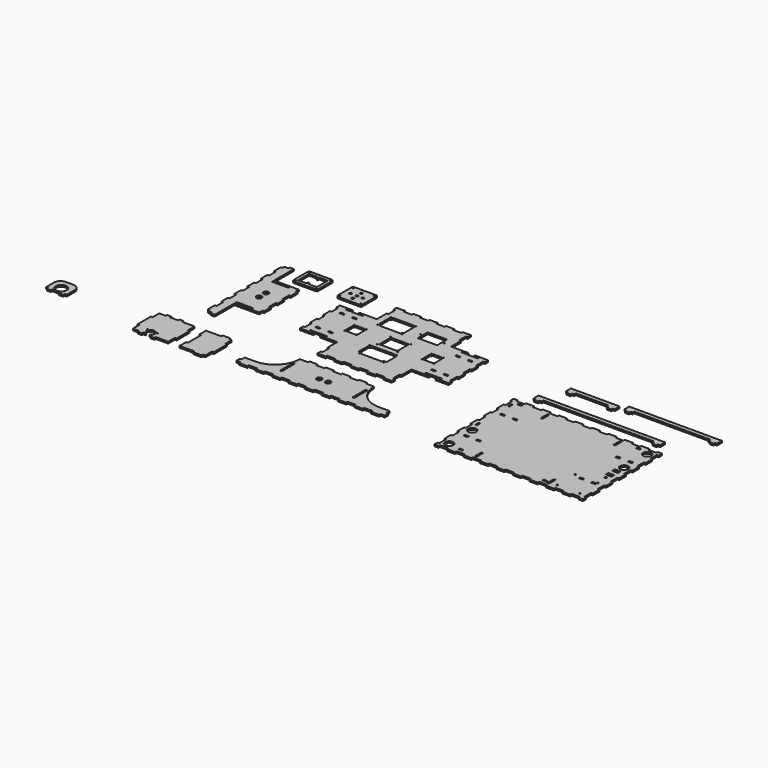
from build123d import *

# Parameters (mm, degrees)
F1_R      = 1.5875
F1_W      = 12.7
F1_H      = 4.953
F1_R_2    = 1.4605
F1_R_3    = 1.59
F1_R_4    = 1.5605030282
F1_W_2    = 55.7491275787
F1_H_2    = 44.6608998299
F1_W_3    = 59.69
F1_H_3    = 38.1
F2_DEPTH  = 5.334
F3_W      = 5.334
F3_H      = 50.8
F3_R      = 8
F4_DEPTH  = 5.334
F5_W      = 50.8
F5_H      = 5.08
F5_R      = 8
F6_DEPTH  = 5.334
F7_R      = 1.7
F8_DEPTH  = 5.334
F7_R_2    = 17
F9_R      = 12.7
F9_W      = 5.334
F9_H      = 25.4
F9_W_2    = 12.7
F9_H_2    = 5.334
F9_W_3    = 4.953
F9_H_3    = 12.7
F9_R_2    = 2.159
F9_R_3    = 3.175
F9_W_4    = 17.78
F9_H_4    = 10.16
F9_H_5    = 4.953
F10_DEPTH = 5.334
F12_DEPTH = 5.334
F13_R     = 1.59
F13_R_2   = 3.75
F14_DEPTH = 5.334


with BuildPart() as f2:
    # F1 (on Top) → F2 (new body)
    with BuildSketch(Plane.XY):
        Polygon((139.7, 304.8), (114.3, 304.8), (114.3, 292.1), (119.634, 292.1), (119.634, 266.7), (114.3, 266.7), (114.3, 228.6), (61, 228.6), (61, 220.3220129013), (40.6, 220.3220129013), (40.6, 228.6), (0, 228.6), (0, 215.9), (5.334, 215.9), (5.334, 190.5), (0, 190.5), (0, 165.1), (5.334, 165.1), (5.334, 139.7), (0, 139.7), (0, 114.3), (5.334, 114.3), (5.334, 88.9), (0, 88.9), (0, 76.2), (40.6, 76.2), (40.6, 84.4779870987), (61, 84.4779870987), (61, 76.2), (114.3, 76.2), (114.3, 38.1), (119.634, 38.1), (119.634, 12.7), (114.3, 12.7), (114.3, 0), (139.7, 0), (139.7, 5.334), (165.1, 5.334), (165.1, 0), (190.5, 0), (190.5, 5.334), (215.9, 5.334), (215.9, 0), (241.3, 0), (241.3, 5.334), (266.7, 5.334), (266.7, 0), (292.1, 0), (292.1, 5.334), (317.5, 5.334), (317.5, 0), (342.9, 0), (342.9, 5.334), (342.9, 12.7), (337.566, 12.7), (337.566, 38.1), (342.9, 38.1), (342.9, 76.2), (396.2, 76.2), (396.2, 84.4779870987), (416.6, 84.4779870987), (416.6, 76.2), (457.2, 76.2), (457.2, 88.9), (451.866, 88.9), (451.866, 114.3), (457.2, 114.3), (457.2, 139.7), (451.866, 139.7), (451.866, 165.1), (457.2, 165.1), (457.2, 190.5), (451.866, 190.5), (451.866, 215.9), (457.2, 215.9), (457.2, 228.6), (416.6, 228.6), (416.6, 220.3220129013), (396.2, 220.3220129013), (396.2, 228.6), (342.9, 228.6), (342.9, 266.7), (337.566, 266.7), (337.566, 292.1), (342.9, 292.1), (342.9, 304.8), (317.5, 304.8), (317.5, 299.466), (292.1, 299.466), (292.1, 304.8), (266.7, 304.8), (266.7, 299.466), (241.3, 299.466), (241.3, 304.8), (215.9, 304.8), (215.9, 299.466), (190.5, 299.466), (190.5, 304.8), (165.1, 304.8), (165.1, 299.466), (139.7, 299.466), align=None)
        with Locations((192.1576304197, 64.14)):
            Circle(F1_R, mode=Mode.SUBTRACT)
        with Locations((31.75, 81.8515)):
            Rectangle(F1_W, F1_H, mode=Mode.SUBTRACT)
        with Locations((31.75, 105.8045)):
            Rectangle(F1_W, F1_H, mode=Mode.SUBTRACT)
        with Locations((69.85, 81.8515)):
            Rectangle(F1_W, F1_H, mode=Mode.SUBTRACT)
        with Locations((69.85, 105.8045)):
            Rectangle(F1_W, F1_H, mode=Mode.SUBTRACT)
        with Locations((91.2, 133.9)):
            Circle(F1_R_2, mode=Mode.SUBTRACT)
        with Locations((185.8076304197, 112.4)):
            Circle(F1_R, mode=Mode.SUBTRACT)
        with Locations((128.2, 133.9)):
            Circle(F1_R_2, mode=Mode.SUBTRACT)
        with Locations((196.85, 127)):
            Circle(F1_R_3, mode=Mode.SUBTRACT)
        with Locations((267.0876304197, 64.14)):
            Circle(F1_R, mode=Mode.SUBTRACT)
        with BuildLine():
            ThreePointArc((185.8076304197, 107.4), (189.3431643257, 108.8644660941), (190.8076304197, 112.4))
            Line((190.8076304197, 112.4), (263.3576304197, 112.4))
            ThreePointArc((263.3576304197, 112.4), (264.8220965138, 108.8644660941), (268.3576304197, 107.4))
            Line((268.3576304197, 107.4), (272.1998989582, 107.4))
            Line((272.1998989582, 107.4), (272.1998989582, 69.14))
            Line((272.1998989582, 69.14), (267.0876304197, 69.14))
            ThreePointArc((267.0876304197, 69.14), (263.5520965138, 67.6755339059), (262.0876304197, 64.14))
            Line((262.0876304197, 64.14), (197.1576304197, 64.14))
            ThreePointArc((197.1576304197, 64.14), (195.6931643257, 67.6755339059), (192.1576304197, 69.14))
            Line((192.1576304197, 69.14), (185.8076304197, 69.14))
            Line((185.8076304197, 69.14), (185.8076304197, 107.4))
        make_face(mode=Mode.SUBTRACT)
        with Locations((268.3576304197, 112.4)):
            Circle(F1_R, mode=Mode.SUBTRACT)
        with Locations((260.35, 127)):
            Circle(F1_R_3, mode=Mode.SUBTRACT)
        with Locations((329, 133.9)):
            Circle(F1_R_2, mode=Mode.SUBTRACT)
        with Locations((387.35, 81.8515)):
            Rectangle(F1_W, F1_H, mode=Mode.SUBTRACT)
        with Locations((387.35, 105.8045)):
            Rectangle(F1_W, F1_H, mode=Mode.SUBTRACT)
        with Locations((425.45, 81.8515)):
            Rectangle(F1_W, F1_H, mode=Mode.SUBTRACT)
        with Locations((425.45, 105.8045)):
            Rectangle(F1_W, F1_H, mode=Mode.SUBTRACT)
        with Locations((366, 133.9)):
            Circle(F1_R_2, mode=Mode.SUBTRACT)
        with BuildLine():
            Line((91.2, 137.8605021034), (91.2, 166.9395006203))
            ThreePointArc((91.2, 166.9395006203), (94.0004959683, 168.0995040317), (95.1604993797, 170.9))
            Line((95.1604993797, 170.9), (124.1394969718, 170.9))
            ThreePointArc((124.1394969718, 170.9), (125.3287907737, 168.0287907737), (128.2, 166.8394969718))
            Line((128.2, 166.8394969718), (128.2, 137.8605067951))
            ThreePointArc((128.2, 137.8605067951), (125.3994987883, 136.7005012117), (124.2394932049, 133.9))
            Line((124.2394932049, 133.9), (95.1605021034, 133.9))
            ThreePointArc((95.1605021034, 133.9), (94.0004978942, 136.7004978942), (91.2, 137.8605021034))
        make_face(mode=Mode.SUBTRACT)
        with Locations((91.2, 170.9)):
            Circle(F1_R_2, mode=Mode.SUBTRACT)
        with Locations((31.75, 198.9955)):
            Rectangle(F1_W, F1_H, mode=Mode.SUBTRACT)
        with Locations((31.75, 222.9485)):
            Rectangle(F1_W, F1_H, mode=Mode.SUBTRACT)
        with Locations((69.85, 198.9955)):
            Rectangle(F1_W, F1_H, mode=Mode.SUBTRACT)
        with Locations((69.85, 222.9485)):
            Rectangle(F1_W, F1_H, mode=Mode.SUBTRACT)
        with Locations((128.2, 170.9)):
            Circle(F1_R_4, mode=Mode.SUBTRACT)
        with Locations((196.85, 177.8)):
            Circle(F1_R_3, mode=Mode.SUBTRACT)
        with Locations((134.4612389803, 206.2033116817)):
            Circle(F1_R_3, mode=Mode.SUBTRACT)
        with Locations((210.4612389803, 206.2033116817)):
            Circle(F1_R_3, mode=Mode.SUBTRACT)
        with Locations((134.4612389803, 258.2033116817)):
            Circle(F1_R_3, mode=Mode.SUBTRACT)
        with BuildLine():
            Line((134.4612389803, 211.2033116817), (134.4612389803, 253.2033116817))
            ThreePointArc((134.4612389803, 253.2033116817), (137.9967728862, 254.6677777758), (139.4612389803, 258.2033116817))
            Line((139.4612389803, 258.2033116817), (205.4612389803, 258.2033116817))
            ThreePointArc((205.4612389803, 258.2033116817), (206.9257050744, 254.6677777758), (210.4612389803, 253.2033116817))
            Line((210.4612389803, 253.2033116817), (210.4612389803, 211.2033116817))
            ThreePointArc((210.4612389803, 211.2033116817), (206.9257050744, 209.7388455877), (205.4612389803, 206.2033116817))
            Line((205.4612389803, 206.2033116817), (139.4612389803, 206.2033116817))
            ThreePointArc((139.4612389803, 206.2033116817), (137.9967728862, 209.7388455877), (134.4612389803, 211.2033116817))
        make_face(mode=Mode.SUBTRACT)
        with Locations((210.4612389803, 258.2033116817)):
            Circle(F1_R_3, mode=Mode.SUBTRACT)
        with Locations((228.6, 152.4)):
            Rectangle(F1_W_2, F1_H_2, mode=Mode.SUBTRACT)
        with Locations((260.35, 177.8)):
            Circle(F1_R_3, mode=Mode.SUBTRACT)
        with Locations((329, 170.9)):
            Circle(F1_R_4, mode=Mode.SUBTRACT)
        with BuildLine():
            ThreePointArc((332.9605067951, 133.9), (331.8005012117, 136.7005012117), (329, 137.8605067951))
            Line((329, 137.8605067951), (329, 166.8394969718))
            ThreePointArc((329, 166.8394969718), (331.8712092263, 168.0287907737), (333.0605030282, 170.9))
            Line((333.0605030282, 170.9), (362.0395006203, 170.9))
            ThreePointArc((362.0395006203, 170.9), (363.1995040317, 168.0995040317), (366, 166.9395006203))
            Line((366, 166.9395006203), (366, 137.8605021034))
            ThreePointArc((366, 137.8605021034), (363.1995021058, 136.7004978942), (362.0394978966, 133.9))
            Line((362.0394978966, 133.9), (332.9605067951, 133.9))
        make_face(mode=Mode.SUBTRACT)
        with Locations((366, 170.9)):
            Circle(F1_R_2, mode=Mode.SUBTRACT)
        with Locations((387.35, 198.9955)):
            Rectangle(F1_W, F1_H, mode=Mode.SUBTRACT)
        with Locations((387.35, 222.9485)):
            Rectangle(F1_W, F1_H, mode=Mode.SUBTRACT)
        with Locations((425.45, 198.9955)):
            Rectangle(F1_W, F1_H, mode=Mode.SUBTRACT)
        with Locations((425.45, 222.9485)):
            Rectangle(F1_W, F1_H, mode=Mode.SUBTRACT)
        with Locations((246.4602110287, 232.2033116817)):
            Circle(F1_R_3, mode=Mode.SUBTRACT)
        with Locations((282.6552110287, 232.2033116817)):
            Rectangle(F1_W_3, F1_H_3, mode=Mode.SUBTRACT)
        with Locations((318.8502110287, 232.2033116817)):
            Circle(F1_R_3, mode=Mode.SUBTRACT)
    extrude(amount=F2_DEPTH)


with BuildPart() as f4:
    # F3 (on Top) → F4 (new body)
    with BuildSketch(Plane.XY):
        with BuildLine():
            Line((430.1446376383, -151.3329756618), (442.8446376383, -151.3329756618))
            Line((442.8446376383, -151.3329756618), (442.8446376383, -138.6329756618))
            Line((442.8446376383, -138.6329756618), (437.5106376383, -138.6329756618))
            Line((437.5106376383, -138.6329756618), (437.5106376383, -125.9329756618))
            Line((437.5106376383, -125.9329756618), (404.7446376383, -125.9329756618))
            ThreePointArc((404.7446376383, -125.9329756618), (350.8631009119, -103.6145123882), (328.5446376383, -49.7329756618))
            Line((328.5446376383, -49.7329756618), (303.1446376383, -49.7329756618))
            Line((303.1446376383, -49.7329756618), (303.1446376383, -44.3989756618))
            Line((303.1446376383, -44.3989756618), (277.7446376383, -44.3989756618))
            Line((277.7446376383, -44.3989756618), (277.7446376383, -49.7329756618))
            Line((277.7446376383, -49.7329756618), (252.3446376383, -49.7329756618))
            Line((252.3446376383, -49.7329756618), (252.3446376383, -44.3989756618))
            Line((252.3446376383, -44.3989756618), (226.9446376383, -44.3989756618))
            Line((226.9446376383, -44.3989756618), (226.9446376383, -49.7329756618))
            Line((226.9446376383, -49.7329756618), (201.5446376383, -49.7329756618))
            Line((201.5446376383, -49.7329756618), (201.5446376383, -44.3989756618))
            Line((201.5446376383, -44.3989756618), (176.1446376383, -44.3989756618))
            Line((176.1446376383, -44.3989756618), (176.1446376383, -49.7329756618))
            Line((176.1446376383, -49.7329756618), (150.7446376383, -49.7329756618))
            Line((150.7446376383, -49.7329756618), (150.7446376383, -44.3989756618))
            Line((150.7446376383, -44.3989756618), (125.3446376383, -44.3989756618))
            Line((125.3446376383, -44.3989756618), (125.3446376383, -49.7329756618))
            Line((125.3446376383, -49.7329756618), (99.9446376383, -49.7329756618))
            ThreePointArc((99.9446376383, -49.7329756618), (77.6261743647, -103.6145123882), (23.7446376383, -125.9329756618))
            Line((23.7446376383, -125.9329756618), (-9.0213623617, -125.9329756618))
            Line((-9.0213623617, -125.9329756618), (-9.0213623617, -138.6329756618))
            Line((-9.0213623617, -138.6329756618), (-14.3553623617, -138.6329756618))
            Line((-14.3553623617, -138.6329756618), (-14.3553623617, -151.3329756618))
            Line((-14.3553623617, -151.3329756618), (-1.6553623617, -151.3329756618))
            Line((-1.6553623617, -151.3329756618), (-1.6553623617, -156.6669756618))
            Line((-1.6553623617, -156.6669756618), (23.7446376383, -156.6669756618))
            Line((23.7446376383, -156.6669756618), (23.7446376383, -151.3329756618))
            Line((23.7446376383, -151.3329756618), (49.1446376383, -151.3329756618))
            Line((49.1446376383, -151.3329756618), (49.1446376383, -156.6669756618))
            Line((49.1446376383, -156.6669756618), (74.5446376383, -156.6669756618))
            Line((74.5446376383, -156.6669756618), (74.5446376383, -151.3329756618))
            Line((74.5446376383, -151.3329756618), (99.9446376383, -151.3329756618))
            Line((99.9446376383, -151.3329756618), (99.9446376383, -156.6669756618))
            Line((99.9446376383, -156.6669756618), (125.3446376383, -156.6669756618))
            Line((125.3446376383, -156.6669756618), (125.3446376383, -151.3329756618))
            Line((125.3446376383, -151.3329756618), (150.7446376383, -151.3329756618))
            Line((150.7446376383, -151.3329756618), (150.7446376383, -156.6669756618))
            Line((150.7446376383, -156.6669756618), (176.1446376383, -156.6669756618))
            Line((176.1446376383, -156.6669756618), (176.1446376383, -151.3329756618))
            Line((176.1446376383, -151.3329756618), (201.5446376383, -151.3329756618))
            Line((201.5446376383, -151.3329756618), (201.5446376383, -156.6669756618))
            Line((201.5446376383, -156.6669756618), (226.9446376383, -156.6669756618))
            Line((226.9446376383, -156.6669756618), (226.9446376383, -151.3329756618))
            Line((226.9446376383, -151.3329756618), (252.3446376383, -151.3329756618))
            Line((252.3446376383, -151.3329756618), (252.3446376383, -156.6669756618))
            Line((252.3446376383, -156.6669756618), (277.7446376383, -156.6669756618))
            Line((277.7446376383, -156.6669756618), (277.7446376383, -151.3329756618))
            Line((277.7446376383, -151.3329756618), (303.1446376383, -151.3329756618))
            Line((303.1446376383, -151.3329756618), (303.1446376383, -156.6669756618))
            Line((303.1446376383, -156.6669756618), (328.5446376383, -156.6669756618))
            Line((328.5446376383, -156.6669756618), (328.5446376383, -151.3329756618))
            Line((328.5446376383, -151.3329756618), (353.9446376383, -151.3329756618))
            Line((353.9446376383, -151.3329756618), (353.9446376383, -156.6669756618))
            Line((353.9446376383, -156.6669756618), (379.3446376383, -156.6669756618))
            Line((379.3446376383, -156.6669756618), (379.3446376383, -151.3329756618))
            Line((379.3446376383, -151.3329756618), (404.7446376383, -151.3329756618))
            Line((404.7446376383, -151.3329756618), (404.7446376383, -156.6669756618))
            Line((404.7446376383, -156.6669756618), (430.1446376383, -156.6669756618))
            Line((430.1446376383, -156.6669756618), (430.1446376383, -151.3329756618))
        make_face()
        with Locations((102.6116376383, -100.5329756618)):
            Rectangle(F3_W, F3_H, mode=Mode.SUBTRACT)
        with Locations((325.8776376383, -100.5329756618)):
            Rectangle(F3_W, F3_H, mode=Mode.SUBTRACT)
        with Locations((200.7446376383, -100.5329756618)):
            Circle(F3_R, mode=Mode.SUBTRACT)
        with Locations((227.7446376383, -100.5329756618)):
            Circle(F3_R, mode=Mode.SUBTRACT)
    extrude(amount=F4_DEPTH)


with BuildPart() as f6:
    # F5 (on Top) → F6 (new body)
    with BuildSketch(Plane.XY):
        Polygon((-204.3737312469, 307.7952442482), (-217.0737312469, 307.7952442482), (-217.0737312469, 302.4612442482), (-229.7737312469, 302.4612442482), (-229.7737312469, 295.0952442482), (-235.1077312469, 295.0952442482), (-235.1077312469, 269.6952442482), (-229.7737312469, 269.6952442482), (-229.7737312469, 244.2952442482), (-235.1077312469, 244.2952442482), (-235.1077312469, 218.8952442482), (-229.7737312469, 218.8952442482), (-229.7737312469, 193.4952442482), (-235.1077312469, 193.4952442482), (-235.1077312469, 168.0952442482), (-229.7737312469, 168.0952442482), (-229.7737312469, 142.6952442482), (-235.1077312469, 142.6952442482), (-235.1077312469, 117.2952442482), (-229.7737312469, 117.2952442482), (-229.7737312469, 91.8952442482), (-235.1077312469, 91.8952442482), (-235.1077312469, 66.4952442482), (-229.7737312469, 66.4952442482), (-229.7737312469, 41.0952442482), (-235.1077312469, 41.0952442482), (-235.1077312469, 15.6952442482), (-229.7737312469, 15.6952442482), (-229.7737312469, 8.3292442482), (-217.0737312469, 8.3292442482), (-217.0737312469, 2.9952442482), (-204.3737312469, 2.9952442482), (-204.3737312469, 79.1952442482), (-128.1737312469, 79.1952442482), (-128.1737312469, 91.8952442482), (-122.8397312469, 91.8952442482), (-122.8397312469, 117.2952442482), (-128.1737312469, 117.2952442482), (-128.1737312469, 142.6952442482), (-122.8397312469, 142.6952442482), (-122.8397312469, 168.0952442482), (-128.1737312469, 168.0952442482), (-128.1737312469, 193.4952442482), (-122.8397312469, 193.4952442482), (-122.8397312469, 218.8952442482), (-128.1737312469, 218.8952442482), (-128.1737312469, 231.5952442482), (-204.3737312469, 231.5952442482), align=None)
        with Locations((-178.9737312469, 84.9102442482)):
            Rectangle(F5_W, F5_H, mode=Mode.SUBTRACT)
        with Locations((-178.9737312469, 141.8952442482)):
            Circle(F5_R, mode=Mode.SUBTRACT)
        with Locations((-178.9737312469, 168.8952442482)):
            Circle(F5_R, mode=Mode.SUBTRACT)
        with Locations((-178.9737312469, 225.8802442482)):
            Rectangle(F5_W, F5_H, mode=Mode.SUBTRACT)
    extrude(amount=F6_DEPTH)


with BuildPart() as f8:
    # F7 (on Top) → F8 (new body)
    with BuildSketch(Plane.XY):
        with BuildLine():
            ThreePointArc((-272.8370583595, -176.365018195), (-267.6500678062, -152.492018195), (-262.4630772529, -176.365018195))
            Line((-262.4630772529, -176.365018195), (-261.3000678062, -176.365018195))
            Line((-261.3000678062, -176.365018195), (-254.9500678062, -176.365018195))
            Line((-254.9500678062, -176.365018195), (-254.9500678062, -181.699018195))
            Line((-254.9500678062, -181.699018195), (-242.2500678062, -181.699018195))
            Line((-242.2500678062, -181.699018195), (-242.2500678062, -176.365018195))
            Line((-242.2500678062, -176.365018195), (-222.1840678062, -176.365018195))
            Line((-222.1840678062, -176.365018195), (-209.4840678062, -176.365018195))
            Line((-209.4840678062, -176.365018195), (-204.1500678062, -176.365018195))
            Line((-204.1500678062, -176.365018195), (-204.1500678062, -150.965018195))
            Line((-204.1500678062, -150.965018195), (-198.8160678062, -150.965018195))
            Line((-198.8160678062, -150.965018195), (-198.8160678062, -100.165018195))
            Line((-198.8160678062, -100.165018195), (-204.1500678062, -100.165018195))
            Line((-204.1500678062, -100.165018195), (-204.1500678062, -74.765018195))
            Line((-204.1500678062, -74.765018195), (-209.4840678062, -74.765018195))
            Line((-209.4840678062, -74.765018195), (-242.2500678062, -74.765018195))
            Line((-242.2500678062, -74.765018195), (-242.2500678062, -69.431018195))
            Line((-242.2500678062, -69.431018195), (-254.9500678062, -69.431018195))
            Line((-254.9500678062, -69.431018195), (-254.9500678062, -74.765018195))
            Line((-254.9500678062, -74.765018195), (-261.3000678062, -74.765018195))
            Line((-261.3000678062, -74.765018195), (-274.0000678062, -74.765018195))
            Line((-274.0000678062, -74.765018195), (-280.3500678062, -74.765018195))
            Line((-280.3500678062, -74.765018195), (-280.3500678062, -69.431018195))
            Line((-280.3500678062, -69.431018195), (-293.0500678062, -69.431018195))
            Line((-293.0500678062, -69.431018195), (-293.0500678062, -74.765018195))
            Line((-293.0500678062, -74.765018195), (-313.1160678062, -74.765018195))
            Line((-313.1160678062, -74.765018195), (-313.1160678062, -100.165018195))
            Line((-313.1160678062, -100.165018195), (-318.4500678062, -100.165018195))
            Line((-318.4500678062, -100.165018195), (-318.4500678062, -150.965018195))
            Line((-318.4500678062, -150.965018195), (-313.1160678062, -150.965018195))
            Line((-313.1160678062, -150.965018195), (-313.1160678062, -176.365018195))
            Line((-313.1160678062, -176.365018195), (-293.0500678062, -176.365018195))
            Line((-293.0500678062, -176.365018195), (-293.0500678062, -181.699018195))
            Line((-293.0500678062, -181.699018195), (-280.3500678062, -181.699018195))
            Line((-280.3500678062, -181.699018195), (-280.3500678062, -176.365018195))
            Line((-280.3500678062, -176.365018195), (-274.0000678062, -176.365018195))
            Line((-274.0000678062, -176.365018195), (-272.8370583595, -176.365018195))
        make_face()
        with Locations((-283.1500678062, -157.992018195)):
            Circle(F7_R, mode=Mode.SUBTRACT)
        with Locations((-252.1500678062, -157.992018195)):
            Circle(F7_R, mode=Mode.SUBTRACT)
    extrude(amount=F8_DEPTH)


with BuildPart() as f8b:
    # F7 (on Top) → F8, piece 2 (new body)
    with BuildSketch(Plane.XY):
        Polygon((-122.6160678062, -74.765018195), (-169.2250678062, -74.765018195), (-169.2250678062, -100.2327756405), (-163.8910678062, -100.2327756405), (-163.8910678062, -151.0327756405), (-169.2250678062, -151.0327756405), (-169.2250678062, -176.365018195), (-122.6160678062, -176.365018195), (-122.6160678062, -181.699018195), (-97.2160678062, -181.699018195), (-97.2160678062, -176.365018195), (-89.8500678062, -176.365018195), (-89.8500678062, -151.0327756405), (-84.5160678062, -151.0327756405), (-84.5160678062, -100.2327756405), (-89.8500678062, -100.2327756405), (-89.8500678062, -74.765018195), (-97.2160678062, -74.765018195), (-97.2160678062, -69.431018195), (-122.6160678062, -69.431018195), align=None)
    extrude(amount=F8_DEPTH)


with BuildPart() as f8c:
    # F7 (on Top) → F8, piece 3 (new body)
    with BuildSketch(Plane.XY):
        with BuildLine():
            Line((-591.9987723351, -143.3400139274), (-591.9987723351, -138.0060139274))
            Line((-591.9987723351, -138.0060139274), (-585.6487723351, -138.0060139274))
            Line((-585.6487723351, -138.0060139274), (-572.9487723351, -138.0060139274))
            Line((-572.9487723351, -138.0060139274), (-566.5987723351, -138.0060139274))
            Line((-566.5987723351, -138.0060139274), (-566.5987723351, -143.3400139274))
            Line((-566.5987723351, -143.3400139274), (-553.8987723351, -143.3400139274))
            Line((-553.8987723351, -143.3400139274), (-553.8987723351, -138.0060139274))
            Line((-553.8987723351, -138.0060139274), (-547.5487723351, -138.0060139274))
            Line((-547.5487723351, -138.0060139274), (-547.5487723351, -107.2060139274))
            ThreePointArc((-547.5487723351, -107.2060139274), (-553.4066367113, -93.0638783036), (-567.5487723351, -87.2060139274))
            Line((-567.5487723351, -87.2060139274), (-591.0487723351, -87.2060139274))
            ThreePointArc((-591.0487723351, -87.2060139274), (-605.1909079588, -93.0638783036), (-611.0487723351, -107.2060139274))
            Line((-611.0487723351, -107.2060139274), (-611.0487723351, -138.0060139274))
            Line((-611.0487723351, -138.0060139274), (-604.6987723351, -138.0060139274))
            Line((-604.6987723351, -138.0060139274), (-604.6987723351, -143.3400139274))
            Line((-604.6987723351, -143.3400139274), (-591.9987723351, -143.3400139274))
        make_face()
        with Locations((-579.2987723351, -119.5060139274)):
            Circle(F7_R_2, mode=Mode.SUBTRACT)
    extrude(amount=F8_DEPTH)


with BuildPart() as f10:
    # F9 (on Top) → F10 (new body)
    with BuildSketch(Plane.XY):
        Polygon((630.1227645119, 72.4664174648), (630.1227645119, 59.7664174648), (630.1227645119, 47.0664174648), (635.4567645119, 47.0664174648), (635.4567645119, 21.6664174648), (630.1227645119, 21.6664174648), (630.1227645119, -3.7335825352), (635.4567645119, -3.7335825352), (635.4567645119, -29.1335825352), (630.1227645119, -29.1335825352), (630.1227645119, -54.5335825352), (635.4567645119, -54.5335825352), (635.4567645119, -79.9335825352), (630.1227645119, -79.9335825352), (630.1227645119, -105.3335825352), (635.4567645119, -105.3335825352), (635.4567645119, -130.7335825352), (630.1227645119, -130.7335825352), (630.1227645119, -143.4335825352), (630.1227645119, -156.1335825352), (635.4567645119, -156.1335825352), (635.4567645119, -181.5335825352), (630.1227645119, -181.5335825352), (630.1227645119, -194.2335825352), (642.8227645119, -194.2335825352), (642.8227645119, -188.8995825352), (668.2227645119, -188.8995825352), (668.2227645119, -194.2335825352), (693.6227645119, -194.2335825352), (693.6227645119, -188.8995825352), (719.0227645119, -188.8995825352), (719.0227645119, -194.2335825352), (744.4227645119, -194.2335825352), (744.4227645119, -188.8995825352), (769.8227645119, -188.8995825352), (769.8227645119, -194.2335825352), (795.2227645119, -194.2335825352), (795.2227645119, -188.8995825352), (820.6227645119, -188.8995825352), (820.6227645119, -194.2335825352), (846.0227645119, -194.2335825352), (846.0227645119, -188.8995825352), (871.4227645119, -188.8995825352), (871.4227645119, -194.2335825352), (896.8227645119, -194.2335825352), (896.8227645119, -188.8995825352), (922.2227645119, -188.8995825352), (922.2227645119, -194.2335825352), (947.6227645119, -194.2335825352), (947.6227645119, -188.8995825352), (973.0227645119, -188.8995825352), (973.0227645119, -194.2335825352), (998.4227645119, -194.2335825352), (998.4227645119, -188.8995825352), (1023.8227645119, -188.8995825352), (1023.8227645119, -194.2335825352), (1049.2227645119, -194.2335825352), (1049.2227645119, -188.8995825352), (1074.6227645119, -188.8995825352), (1074.6227645119, -194.2335825352), (1087.3227645119, -194.2335825352), (1087.3227645119, -181.5335825352), (1081.9887645119, -181.5335825352), (1081.9887645119, -156.1335825352), (1087.3227645119, -156.1335825352), (1087.3227645119, -143.4335825352), (1087.3227645119, -130.7335825352), (1081.9887645119, -130.7335825352), (1081.9887645119, -105.3335825352), (1087.3227645119, -105.3335825352), (1087.3227645119, -79.9335825352), (1081.9887645119, -79.9335825352), (1081.9887645119, -54.5335825352), (1087.3227645119, -54.5335825352), (1087.3227645119, -29.1335825352), (1081.9887645119, -29.1335825352), (1081.9887645119, -3.7335825352), (1087.3227645119, -3.7335825352), (1087.3227645119, 21.6664174648), (1081.9887645119, 21.6664174648), (1081.9887645119, 47.0664174648), (1087.3227645119, 47.0664174648), (1087.3227645119, 59.7664174648), (1087.3227645119, 72.4664174648), (1081.9887645119, 72.4664174648), (1081.9887645119, 97.8664174648), (1087.3227645119, 97.8664174648), (1087.3227645119, 110.5664174648), (1074.6227645119, 110.5664174648), (1074.6227645119, 105.2324174648), (1049.2227645119, 105.2324174648), (1049.2227645119, 110.5664174648), (1023.8227645119, 110.5664174648), (1023.8227645119, 105.2324174648), (998.4227645119, 105.2324174648), (998.4227645119, 110.5664174648), (973.0227645119, 110.5664174648), (973.0227645119, 105.2324174648), (947.6227645119, 105.2324174648), (947.6227645119, 110.5664174648), (922.2227645119, 110.5664174648), (922.2227645119, 105.2324174648), (896.8227645119, 105.2324174648), (896.8227645119, 110.5664174648), (871.4227645119, 110.5664174648), (871.4227645119, 105.2324174648), (846.0227645119, 105.2324174648), (846.0227645119, 110.5664174648), (820.6227645119, 110.5664174648), (820.6227645119, 105.2324174648), (795.2227645119, 105.2324174648), (795.2227645119, 110.5664174648), (769.8227645119, 110.5664174648), (769.8227645119, 105.2324174648), (744.4227645119, 105.2324174648), (744.4227645119, 110.5664174648), (719.0227645119, 110.5664174648), (719.0227645119, 105.2324174648), (693.6227645119, 105.2324174648), (693.6227645119, 110.5664174648), (668.2227645119, 110.5664174648), (668.2227645119, 105.2324174648), (642.8227645119, 105.2324174648), (642.8227645119, 110.5664174648), (630.1227645119, 110.5664174648), (630.1227645119, 97.8664174648), (635.4567645119, 97.8664174648), (635.4567645119, 72.4664174648), align=None)
        with Locations((655.5227645119, -168.8335825352)):
            Circle(F9_R, mode=Mode.SUBTRACT)
        Polygon((702.6887645119, -177.9775825352), (690.0023275424, -177.9775825352), (689.9887645119, -173.0245825352), (702.6887645119, -173.0245825352), align=None, mode=Mode.SUBTRACT)
        with Locations((747.0897645119, -168.8335825352)):
            Rectangle(F9_W, F9_H, mode=Mode.SUBTRACT)
        with Locations((661.8727645119, -112.1915825352)):
            Rectangle(F9_W_2, F9_H_2, mode=Mode.SUBTRACT)
        with Locations((699.9727645119, -112.1915825352)):
            Rectangle(F9_W_2, F9_H_2, mode=Mode.SUBTRACT)
        with Locations((655.5227645119, -79.9335825352)):
            Circle(F9_R, mode=Mode.SUBTRACT)
        with Locations((645.2992645119, -46.1835825352)):
            Rectangle(F9_W_3, F9_H_3, mode=Mode.SUBTRACT)
        Polygon((950.0023275424, -177.9775825352), (949.9887645119, -173.0245825352), (962.6887645119, -173.0245825352), (962.6887645119, -177.9775825352), align=None, mode=Mode.SUBTRACT)
        with Locations((970.3557645119, -168.8335825352)):
            Rectangle(F9_W, F9_H, mode=Mode.SUBTRACT)
        with Locations((992.7373804092, -175.1835825352)):
            Circle(F9_R_2, mode=Mode.SUBTRACT)
        with Locations((1062.5873804092, -175.1835825352)):
            Circle(F9_R_2, mode=Mode.SUBTRACT)
        with Locations((992.7373804092, -105.3335825352)):
            Circle(F9_R_2, mode=Mode.SUBTRACT)
        with Locations((1017.4727645119, -112.1915825352)):
            Rectangle(F9_W_2, F9_H_2, mode=Mode.SUBTRACT)
        with Locations((1055.5727645119, -112.1915825352)):
            Rectangle(F9_W_2, F9_H_2, mode=Mode.SUBTRACT)
        with Locations((1062.5873804092, -105.3335825352)):
            Circle(F9_R_2, mode=Mode.SUBTRACT)
        with Locations((1059.4123804092, -71.9048529863)):
            Circle(F9_R_3, mode=Mode.SUBTRACT)
        with Locations((1058.6982637787, -54.0477101668)):
            Rectangle(F9_W_4, F9_H_4, mode=Mode.SUBTRACT)
        with Locations((661.8727645119, 28.5244174648)):
            Rectangle(F9_W_2, F9_H_2, mode=Mode.SUBTRACT)
        with Locations((699.9727645119, 28.5244174648)):
            Rectangle(F9_W_2, F9_H_2, mode=Mode.SUBTRACT)
        with Locations((645.2992645119, 78.8164174648)):
            Rectangle(F9_W_3, F9_H_3, mode=Mode.SUBTRACT)
        with Locations((661.8727645119, 95.3899174648)):
            Rectangle(F9_W_2, F9_H_5, mode=Mode.SUBTRACT)
        with Locations((747.0897645119, 85.1664174648)):
            Rectangle(F9_W, F9_H, mode=Mode.SUBTRACT)
        with Locations((1058.6982637787, -29.6194549036)):
            Rectangle(F9_W_4, F9_H_4, mode=Mode.SUBTRACT)
        with Locations((1061.9227645119, -3.7335825352)):
            Circle(F9_R, mode=Mode.SUBTRACT)
        with Locations((1017.4727645119, 28.5244174648)):
            Rectangle(F9_W_2, F9_H_2, mode=Mode.SUBTRACT)
        with Locations((1055.5727645119, 28.5244174648)):
            Rectangle(F9_W_2, F9_H_2, mode=Mode.SUBTRACT)
        with Locations((970.3557645119, 85.1664174648)):
            Rectangle(F9_W, F9_H, mode=Mode.SUBTRACT)
        with Locations((1026.8727645119, 95.3899174648)):
            Rectangle(F9_W_2, F9_H_5, mode=Mode.SUBTRACT)
        with Locations((1061.9227645119, 85.1664174648)):
            Circle(F9_R, mode=Mode.SUBTRACT)
    extrude(amount=F10_DEPTH)


with BuildPart() as f12:
    # F11 (on Top) → F12 (new body)
    with BuildSketch(Plane.XY):
        with BuildLine():
            Line((1056.8931765938, 160.7913408897), (666.5131765938, 160.7913408897))
            ThreePointArc((666.5131765938, 160.7913408897), (666.506105526, 160.7884119575), (666.5031765938, 160.7813408897))
            Line((666.5031765938, 160.7813408897), (666.5031765938, 148.0913408897))
            Line((666.5031765938, 148.0913408897), (666.5031765938, 141.7413408897))
            Line((666.5031765938, 141.7413408897), (672.8531765938, 141.7413408897))
            Line((672.8531765938, 141.7413408897), (672.8531765938, 136.4073408897))
            Line((672.8531765938, 136.4073408897), (685.5531765938, 136.4073408897))
            Line((685.5531765938, 136.4073408897), (685.5531765938, 141.7413408897))
            Line((685.5531765938, 141.7413408897), (691.9031765938, 141.7413408897))
            Line((691.9031765938, 141.7413408897), (691.9031765938, 148.0913408897))
            Line((691.9031765938, 148.0913408897), (1031.5031765938, 148.0913408897))
            Line((1031.5031765938, 148.0913408897), (1031.5031765938, 141.7413408897))
            Line((1031.5031765938, 141.7413408897), (1037.8531765938, 141.7413408897))
            Line((1037.8531765938, 141.7413408897), (1037.8531765938, 136.4073408897))
            Line((1037.8531765938, 136.4073408897), (1050.5531765938, 136.4073408897))
            Line((1050.5531765938, 136.4073408897), (1050.5531765938, 141.7413408897))
            Line((1050.5531765938, 141.7413408897), (1056.9031765938, 141.7413408897))
            Line((1056.9031765938, 141.7413408897), (1056.9031765938, 148.0913408897))
            Line((1056.9031765938, 148.0913408897), (1056.9031765938, 160.7813408897))
            ThreePointArc((1056.9031765938, 160.7813408897), (1056.9002476616, 160.7884119575), (1056.8931765938, 160.7913408897))
        make_face()
    extrude(amount=F12_DEPTH)


with BuildPart() as f12b:
    # F11 (on Top) → F12, piece 2 (new body)
    with BuildSketch(Plane.XY):
        with BuildLine():
            Line((854.4557377243, 238.482473514), (704.0757377243, 238.482473514))
            ThreePointArc((704.0757377243, 238.482473514), (704.0686666565, 238.4795445819), (704.0657377243, 238.472473514))
            Line((704.0657377243, 238.472473514), (704.0657377243, 225.782473514))
            Line((704.0657377243, 225.782473514), (704.0657377243, 219.432473514))
            Line((704.0657377243, 219.432473514), (710.4157377243, 219.432473514))
            Line((710.4157377243, 219.432473514), (710.4157377243, 214.098473514))
            Line((710.4157377243, 214.098473514), (723.1157377243, 214.098473514))
            Line((723.1157377243, 214.098473514), (723.1157377243, 219.432473514))
            Line((723.1157377243, 219.432473514), (729.4657377243, 219.432473514))
            Line((729.4657377243, 219.432473514), (729.4657377243, 225.782473514))
            Line((729.4657377243, 225.782473514), (829.0657377243, 225.782473514))
            Line((829.0657377243, 225.782473514), (829.0657377243, 219.432473514))
            Line((829.0657377243, 219.432473514), (835.4157377243, 219.432473514))
            Line((835.4157377243, 219.432473514), (835.4157377243, 214.098473514))
            Line((835.4157377243, 214.098473514), (848.1157377243, 214.098473514))
            Line((848.1157377243, 214.098473514), (848.1157377243, 219.432473514))
            Line((848.1157377243, 219.432473514), (854.4657377243, 219.432473514))
            Line((854.4657377243, 219.432473514), (854.4657377243, 225.782473514))
            Line((854.4657377243, 225.782473514), (854.4657377243, 238.472473514))
            ThreePointArc((854.4657377243, 238.472473514), (854.4628087921, 238.4795445819), (854.4557377243, 238.482473514))
        make_face()
    extrude(amount=F12_DEPTH)


with BuildPart() as f12c:
    # F11 (on Top) → F12, piece 3 (new body)
    with BuildSketch(Plane.XY):
        with BuildLine():
            Line((1158.2445389175, 252.4000984645), (872.8645389175, 252.4000984645))
            ThreePointArc((872.8645389175, 252.4000984645), (872.8574678497, 252.3971695323), (872.8545389175, 252.3900984645))
            Line((872.8545389175, 252.3900984645), (872.8545389175, 239.7000984645))
            Line((872.8545389175, 239.7000984645), (872.8545389175, 233.3500984645))
            Line((872.8545389175, 233.3500984645), (879.2045389175, 233.3500984645))
            Line((879.2045389175, 233.3500984645), (879.2045389175, 228.0160984645))
            Line((879.2045389175, 228.0160984645), (891.9045389175, 228.0160984645))
            Line((891.9045389175, 228.0160984645), (891.9045389175, 233.3500984645))
            Line((891.9045389175, 233.3500984645), (898.2545389175, 233.3500984645))
            Line((898.2545389175, 233.3500984645), (898.2545389175, 239.7000984645))
            Line((898.2545389175, 239.7000984645), (1132.8545389175, 239.7000984645))
            Line((1132.8545389175, 239.7000984645), (1132.8545389175, 233.3500984645))
            Line((1132.8545389175, 233.3500984645), (1139.2045389175, 233.3500984645))
            Line((1139.2045389175, 233.3500984645), (1139.2045389175, 228.0160984645))
            Line((1139.2045389175, 228.0160984645), (1151.9045389175, 228.0160984645))
            Line((1151.9045389175, 228.0160984645), (1151.9045389175, 233.3500984645))
            Line((1151.9045389175, 233.3500984645), (1158.2545389175, 233.3500984645))
            Line((1158.2545389175, 233.3500984645), (1158.2545389175, 239.7000984645))
            Line((1158.2545389175, 239.7000984645), (1158.2545389175, 252.3900984645))
            ThreePointArc((1158.2545389175, 252.3900984645), (1158.2516099854, 252.3971695323), (1158.2445389175, 252.4000984645))
        make_face()
    extrude(amount=F12_DEPTH)


with BuildPart() as f14:
    # F13 (on Top) → F14 (new body)
    with BuildSketch(Plane.XY):
        with BuildLine():
            Line((34.6530567616, 325.1655150961), (-31.5469432384, 325.1655150961))
            ThreePointArc((-31.5469432384, 325.1655150961), (-35.0824771443, 323.701049002), (-36.5469432384, 320.1655150961))
            Line((-36.5469432384, 320.1655150961), (-36.5469432384, 266.6655150961))
            ThreePointArc((-36.5469432384, 266.6655150961), (-35.0824771443, 263.1299811901), (-31.5469432384, 261.6655150961))
            Line((-31.5469432384, 261.6655150961), (34.6530567616, 261.6655150961))
            ThreePointArc((34.6530567616, 261.6655150961), (38.1885906676, 263.1299811901), (39.6530567616, 266.6655150961))
            Line((39.6530567616, 266.6655150961), (39.6530567616, 320.1655150961))
            ThreePointArc((39.6530567616, 320.1655150961), (38.1885906676, 323.701049002), (34.6530567616, 325.1655150961))
        make_face()
        with Locations((-30.1969432384, 268.0155150961)):
            Circle(F13_R, mode=Mode.SUBTRACT)
        with Locations((33.3030567616, 268.0155150961)):
            Circle(F13_R, mode=Mode.SUBTRACT)
        with Locations((1.5530567616, 276.9055150961)):
            Circle(F13_R_2, mode=Mode.SUBTRACT)
        with Locations((-18.2589432384, 293.4155150961)):
            Circle(F13_R_2, mode=Mode.SUBTRACT)
        with Locations((1.5530567616, 293.4155150961)):
            Circle(F13_R_2, mode=Mode.SUBTRACT)
        with Locations((19.3330567616, 293.4155150961)):
            Circle(F13_R_2, mode=Mode.SUBTRACT)
        with Locations((-30.1969432384, 318.8155150961)):
            Circle(F13_R, mode=Mode.SUBTRACT)
        with Locations((1.5530567616, 309.9255150961)):
            Circle(F13_R_2, mode=Mode.SUBTRACT)
        with Locations((33.3030567616, 318.8155150961)):
            Circle(F13_R, mode=Mode.SUBTRACT)
    extrude(amount=F14_DEPTH)


with BuildPart() as f14b:
    # F13 (on Top) → F14, piece 2 (new body)
    with BuildSketch(Plane.XY):
        with BuildLine():
            Line((-98.3685111732, 321.8355839252), (-164.5685111732, 321.8355839252))
            ThreePointArc((-164.5685111732, 321.8355839252), (-168.1040450791, 320.3711178312), (-169.5685111732, 316.8355839252))
            Line((-169.5685111732, 316.8355839252), (-169.5685111732, 263.3355839252))
            ThreePointArc((-169.5685111732, 263.3355839252), (-168.1040450791, 259.8000500193), (-164.5685111732, 258.3355839252))
            Line((-164.5685111732, 258.3355839252), (-98.3685111732, 258.3355839252))
            ThreePointArc((-98.3685111732, 258.3355839252), (-94.8329772673, 259.8000500193), (-93.3685111732, 263.3355839252))
            Line((-93.3685111732, 263.3355839252), (-93.3685111732, 316.8355839252))
            ThreePointArc((-93.3685111732, 316.8355839252), (-94.8329772673, 320.3711178312), (-98.3685111732, 321.8355839252))
        make_face()
        with Locations((-163.2185111732, 264.6855839252)):
            Circle(F13_R, mode=Mode.SUBTRACT)
        with Locations((-131.4685111732, 272.3055839252)):
            Circle(F13_R, mode=Mode.SUBTRACT)
        with Locations((-99.7185111732, 264.6855839252)):
            Circle(F13_R, mode=Mode.SUBTRACT)
        with BuildLine():
            Line((-128.7685111732, 311.4917874336), (-102.7825400233, 311.4917874336))
            Line((-102.7825400233, 311.4917874336), (-102.7825400233, 268.6793804169))
            Line((-102.7825400233, 268.6793804169), (-128.7685111732, 268.6793804169))
            Line((-128.7685111732, 268.6793804169), (-128.7685111732, 272.3055839252))
            ThreePointArc((-128.7685111732, 272.3055839252), (-131.4685111732, 275.0055839252), (-134.1685111732, 272.3055839252))
            Line((-134.1685111732, 272.3055839252), (-134.1685111732, 268.6793804169))
            Line((-134.1685111732, 268.6793804169), (-160.1544823231, 268.6793804169))
            Line((-160.1544823231, 268.6793804169), (-160.1544823231, 311.4917874336))
            Line((-160.1544823231, 311.4917874336), (-134.1685111732, 311.4917874336))
            Line((-134.1685111732, 311.4917874336), (-134.1685111732, 307.8655839252))
            ThreePointArc((-134.1685111732, 307.8655839252), (-131.4685111732, 305.1655839252), (-128.7685111732, 307.8655839252))
            Line((-128.7685111732, 307.8655839252), (-128.7685111732, 311.4917874336))
        make_face(mode=Mode.SUBTRACT)
        with Locations((-131.4685111732, 307.8655839252)):
            Circle(F13_R, mode=Mode.SUBTRACT)
        with Locations((-163.2185111732, 315.4855839252)):
            Circle(F13_R, mode=Mode.SUBTRACT)
        with Locations((-99.7185111732, 315.4855839252)):
            Circle(F13_R, mode=Mode.SUBTRACT)
    extrude(amount=F14_DEPTH)


solid = Compound([f2.part, f4.part, f6.part, f8.part, f8b.part, f8c.part, f10.part, f12.part, f12b.part, f12c.part, f14.part, f14b.part])
